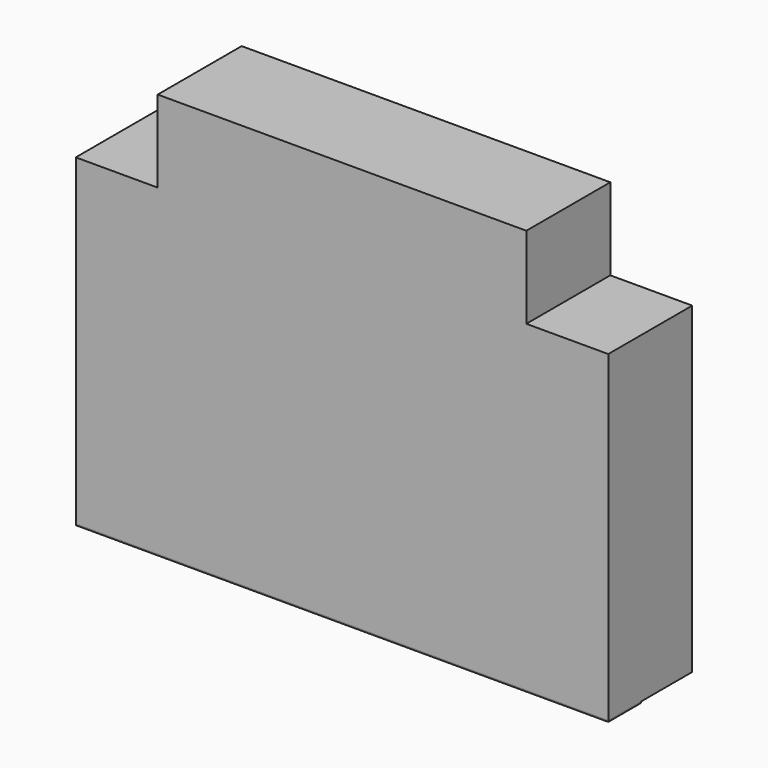
from build123d import *

# Parameters (mm, degrees)
F1_DEPTH  = 657.225
F2_W      = 254
F2_H      = 1000.125
F3_DEPTH  = 3.175
F4_W      = 260.35
F4_H      = 1003.3
F5_DEPTH  = 3.175
F6_W      = 1320.8
F6_H      = 101.6
F7_DEPTH  = 3.175
F8_W      = 277.2880700111
F8_H      = 246.1290188886
F8_W_2    = 389.8101107368
F9_DEPTH  = 260.351
F10_W     = 3.175
F10_H     = 203.2
F10_H_2   = 3.175
F11_DEPTH = 260.35


with BuildPart() as f1:
    # F0 (on Right) → F1 (new body, symmetric)
    with BuildSketch(Plane.YZ):
        Polygon((127, 1000.125), (127, 0), (130.175, 0), (130.175, 1003.3), (-130.175, 1003.3), (-130.175, 0), (-127, 0), (-127, 1000.125), align=None)
    extrude(amount=F1_DEPTH, both=True)

    # F2 (on face) → F3 (join)
    with BuildSketch(Plane(origin=(-657.225, 0, 0), x_dir=(0, -1, 0), z_dir=(-1, 0, 0))):
        with Locations((0, 500.0625)):
            Rectangle(F2_W, F2_H)
        Polygon((130.175, 1003.3), (-130.175, 1003.3), (-130.175, 0), (-127, 0), (-127, 1000.125), (127, 1000.125), (127, 0), (130.175, 0), align=None)
    extrude(amount=F3_DEPTH)

    # F4 (on face) → F5 (join)
    with BuildSketch(Plane.YZ.offset(657.225)):
        with Locations((0, 501.65)):
            Rectangle(F4_W, F4_H)
    extrude(amount=F5_DEPTH)

    # F8 (on face) → F9 (cut, through all)
    with BuildSketch(Plane.XZ.offset(130.175)):
        with Locations((-595.8440350056, 923.1645094443)):
            Rectangle(F8_W, F8_H)
        with Locations((652.1050553684, 923.1645094443)):
            Rectangle(F8_W_2, F8_H)
    extrude(amount=-F9_DEPTH, mode=Mode.SUBTRACT)

    # F10 (on face) → F11 (join, through all)
    with BuildSketch(Plane.XZ.offset(130.175)):
        Polygon((-457.2, 800.1), (-660.4, 800.1), (-660.4, 796.925), (-454.025, 796.925), (-454.025, 800.1), align=None)
        with Locations((-455.6125, 901.7)):
            Rectangle(F10_W, F10_H)
        with Locations((455.6125, 901.7)):
            Rectangle(F10_W, F10_H)
        Polygon((657.225, 800.1), (457.2, 800.1), (457.2, 796.925), (660.4, 796.925), (660.4, 800.1), align=None)
        with Locations((455.6125, 798.5125)):
            Rectangle(F10_W, F10_H_2)
    extrude(amount=-F11_DEPTH)


with BuildPart() as f7:
    # F6 (on face) → F7 (new body)
    with BuildSketch(Plane(origin=(0, 0, 0), x_dir=(1, 0, 0), z_dir=(0, 0, -1))):
        with Locations((0, 79.375)):
            Rectangle(F6_W, F6_H)
    extrude(amount=F7_DEPTH)


solid = Compound([f1.part, f7.part])
